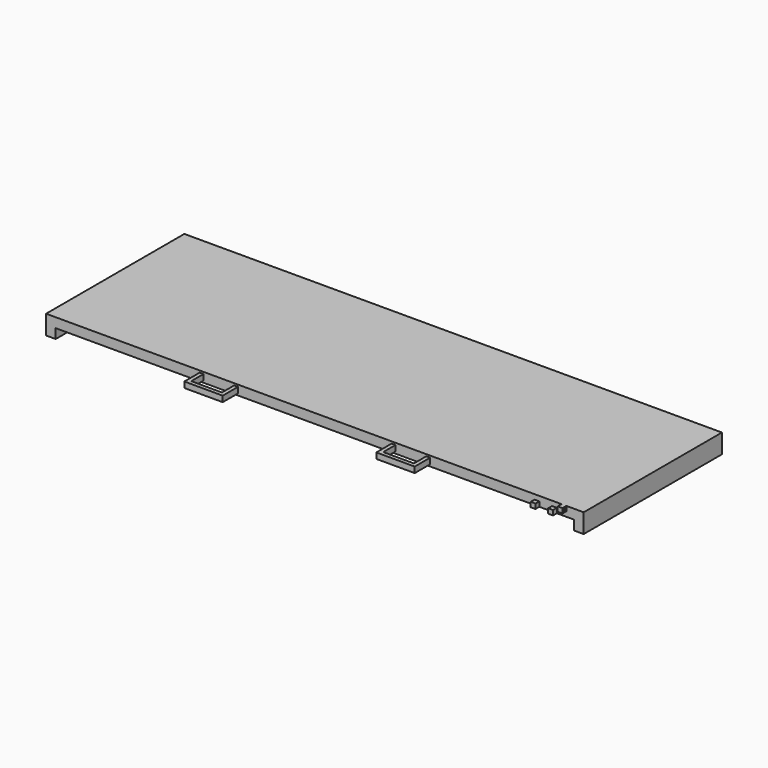
from build123d import *

# Parameters (mm, degrees)
F0_W      = 71.12
F0_H      = 2.54
F1_DEPTH  = 22.86
F2_W      = 68.58
F2_H      = 1.27
F3_DEPTH  = 22.86
F4_W      = 0.762
F4_H      = 22.352
F5_DEPTH  = 1.905
F6_W      = 0.762
F6_H      = 22.352
F7_DEPTH  = 1.905
F8_R      = 0.127
F9_DEPTH  = 0.762
F10_R     = 0.127
F11_DEPTH = 0.762
F12_W     = 5.08
F12_H     = 0.762
F13_DEPTH = 2.54
F14_W     = 4.064
F14_H     = 2.032
F15_DEPTH = 2.287
F16_W     = 4.064
F16_H     = 2.032
F17_DEPTH = 2.287
F18_W     = 0.635
F18_H     = 0.635
F19_DEPTH = 0.635
F20_R     = 0.1905
F21_DEPTH = 2.54


with BuildPart() as f1:
    # F0 (on Front) → F1 (new body)
    with BuildSketch(Plane.XZ):
        with Locations((12.489298, 22.094047)):
            Rectangle(F0_W, F0_H)
    extrude(amount=F1_DEPTH)

    # F2 (on face) → F3 (cut)
    with BuildSketch(Plane.XZ.offset(22.86)):
        with Locations((12.489298, 21.459047)):
            Rectangle(F2_W, F2_H)
    extrude(amount=-F3_DEPTH, mode=Mode.SUBTRACT)

    # F4 (on face) → F5 (cut)
    with BuildSketch(Plane(origin=(0, 0, 20.824047), x_dir=(1, 0, 0), z_dir=(0, 0, -1))):
        with Locations((47.414298, 11.43)):
            Rectangle(F4_W, F4_H)
    extrude(amount=-F5_DEPTH, mode=Mode.SUBTRACT)

    # F6 (on face) → F7 (cut)
    with BuildSketch(Plane(origin=(0, 0, 20.824047), x_dir=(1, 0, 0), z_dir=(0, 0, -1))):
        with Locations((-22.435702, 11.43)):
            Rectangle(F6_W, F6_H)
    extrude(amount=-F7_DEPTH, mode=Mode.SUBTRACT)

    # F8 (on face) → F9 (join, through all)
    with BuildSketch(Plane(origin=(47.795298, 0, 0), x_dir=(0, -1, 0), z_dir=(-1, 0, 0))):
        with Locations((16.51, 21.459047)):
            Circle(F8_R)
        with Locations((6.35, 21.586047)):
            Circle(F8_R)
    extrude(amount=F9_DEPTH)

    # F10 (on face) → F11 (join, through all)
    with BuildSketch(Plane(origin=(-22.054702, 0, 0), x_dir=(0, -1, 0), z_dir=(-1, 0, 0))):
        with Locations((16.51, 21.459047)):
            Circle(F10_R)
        with Locations((6.35, 21.459047)):
            Circle(F10_R)
    extrude(amount=F11_DEPTH)

    # F12 (on face) → F13 (join)
    with BuildSketch(Plane.XZ.offset(22.86)):
        with Locations((-0.210702, 22.729047)):
            Rectangle(F12_W, F12_H)
        with Locations((25.189298, 22.729047)):
            Rectangle(F12_W, F12_H)
    extrude(amount=F13_DEPTH)

    # F14 (on face) → F15 (cut, through all)
    with BuildSketch(Plane.XY.offset(23.110047)):
        with Locations((25.189298, -23.876)):
            Rectangle(F14_W, F14_H)
    extrude(amount=-F15_DEPTH, mode=Mode.SUBTRACT)

    # F16 (on face) → F17 (cut, through all)
    with BuildSketch(Plane.XY.offset(23.110047)):
        with Locations((-0.210702, -23.876)):
            Rectangle(F16_W, F16_H)
    extrude(amount=-F17_DEPTH, mode=Mode.SUBTRACT)

    # F18 (on face) → F19 (join)
    with BuildSketch(Plane.XZ.offset(22.86)):
        with Locations((45.436141, 23.046547)):
            Rectangle(F18_W, F18_H)
        with Locations((44.179277, 22.411547)):
            Rectangle(F18_W, F18_H)
        with Locations((41.867119, 22.411547)):
            Rectangle(F18_W, F18_H)
    extrude(amount=F19_DEPTH)

    # F20 (on face) → F21 (cut)
    with BuildSketch(Plane.YZ.offset(45.753641)):
        with Locations((-23.1775, 23.063494)):
            Circle(F20_R)
    extrude(amount=-F21_DEPTH, mode=Mode.SUBTRACT)


solid = f1.part
